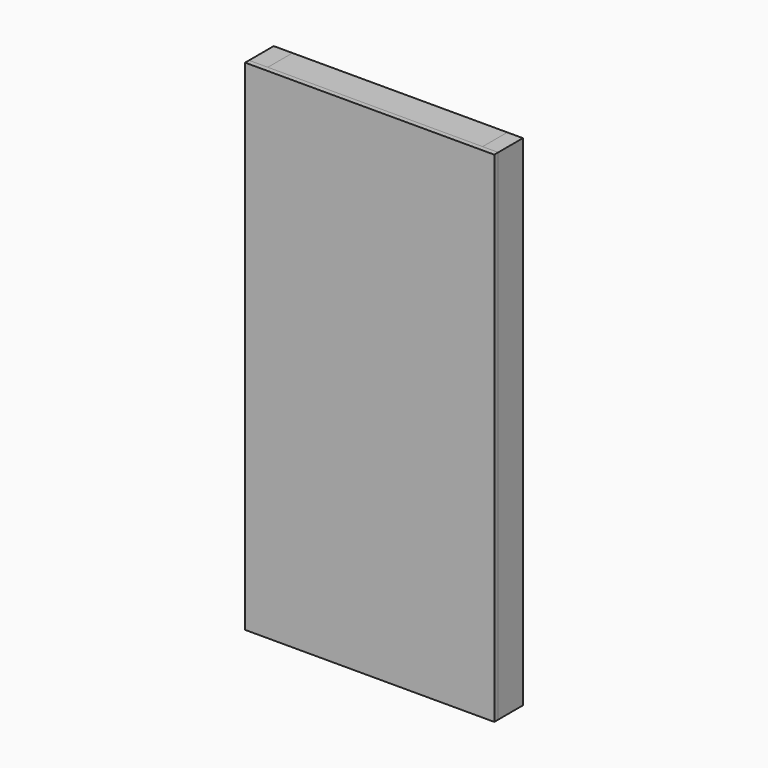
from build123d import *

# Parameters (mm, degrees)
F0_W     = 605.308056
F0_H     = 1213.143468
F1_DEPTH = 12
F2_W     = 521.797836
F2_H     = 52.161515
F2_H_2   = 59.835017
F3_DEPTH = 75


with BuildPart() as f1:
    # F0 (on Front) → F1 (new body)
    with BuildSketch(Plane.XZ):
        Rectangle(F0_W, F0_H)
    extrude(amount=F1_DEPTH)


with BuildPart() as f3:
    # F2 (on face) → F3 (new body)
    with BuildSketch(Plane(origin=(0, 0, 0), x_dir=(-1, 0, 0), z_dir=(0, 1, 0))):
        Polygon((-264.735669, 606.571734), (-302.654028, 606.571734), (-302.654028, -606.571734), (-264.735669, -606.571734), (-264.735669, -546.736717), (-264.735669, 554.410219), align=None)
        with Locations((-3.836751, 580.490976)):
            Rectangle(F2_W, F2_H)
        Polygon((302.654028, 606.571734), (257.062167, 606.571734), (257.062167, 554.410219), (257.062167, -546.736717), (257.062167, -606.571734), (302.654028, -606.571734), align=None)
        with Locations((-3.836751, -576.654225)):
            Rectangle(F2_W, F2_H_2)
    extrude(amount=F3_DEPTH)


solid = Compound([f1.part, f3.part])
